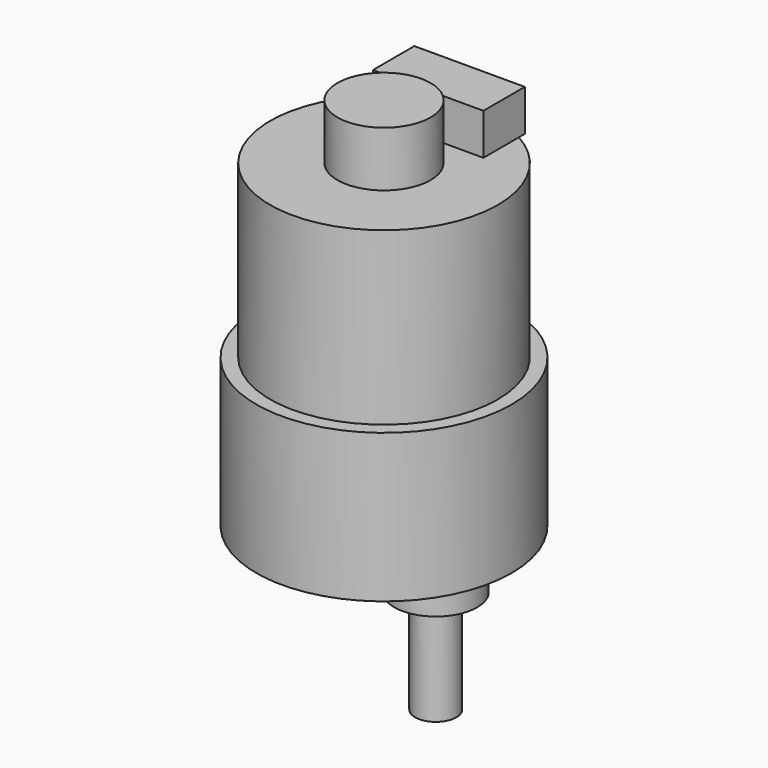
from build123d import *

# Parameters (mm, degrees)
SKETCH_R     = 18.5
PAD_DEPTH    = 21.5
SKETCH001_R  = 6
PAD001_DEPTH = 6
SKETCH002_R  = 3
PAD002_DEPTH = 15
SKETCH003_R  = 1
POCKET_DEPTH = 5
SKETCH004_R  = 16.5
PAD003_DEPTH = 24.8
SKETCH005_W  = 16
SKETCH005_H  = 7.5
PAD004_DEPTH = 6
SKETCH006_R  = 6.75
PAD005_DEPTH = 8


with BuildPart() as part:
    # Sketch → Pad (new body)
    with BuildSketch(Plane.XY):
        Circle(SKETCH_R)
    extrude(amount=PAD_DEPTH)

    # Sketch001 (on Face2 of Pad) → Pad001 (join)
    with BuildSketch(Plane(origin=(0, 0, 0), x_dir=(1, 0, 0), z_dir=(0, 0, -1))):
        with Locations((7.5, 0)):
            Circle(SKETCH001_R)
    extrude(amount=PAD001_DEPTH)

    # Sketch002 (on Face5 of Pad001) → Pad002 (join)
    with BuildSketch(Plane(origin=(0, 0, -6), x_dir=(1, 0, 0), z_dir=(0, 0, -1))):
        with Locations((7.5, 0)):
            Circle(SKETCH002_R)
    extrude(amount=PAD002_DEPTH)

    # Sketch003 (on Face2 of Pad002) → Pocket (cut)
    with BuildSketch(Plane(origin=(0, 0, 0), x_dir=(1, 0, 0), z_dir=(0, 0, -1))):
        with Locations((0, 15.5)):
            Circle(SKETCH003_R)
        with Locations((13.423394, 7.75)):
            Circle(SKETCH003_R)
        with Locations((13.423394, -7.75)):
            Circle(SKETCH003_R)
        with Locations((0, -15.5)):
            Circle(SKETCH003_R)
        with Locations((-13.423394, -7.75)):
            Circle(SKETCH003_R)
        with Locations((-13.423394, 7.75)):
            Circle(SKETCH003_R)
    extrude(amount=-POCKET_DEPTH, mode=Mode.SUBTRACT)

    # Sketch004 (on Face3 of Pocket) → Pad003 (join)
    with BuildSketch(Plane.XY.offset(21.5)):
        Circle(SKETCH004_R)
    extrude(amount=PAD003_DEPTH)

    # Sketch005 (on Face19 of Pad003) → Pad004 (join)
    with BuildSketch(Plane.XY.offset(46.3)):
        with Locations((0, 11.75)):
            Rectangle(SKETCH005_W, SKETCH005_H)
    extrude(amount=PAD004_DEPTH)

    # Sketch006 (on Face19 of Pad004) → Pad005 (join)
    with BuildSketch(Plane.XY.offset(46.3)):
        Circle(SKETCH006_R)
    extrude(amount=PAD005_DEPTH)


solid = part.part
